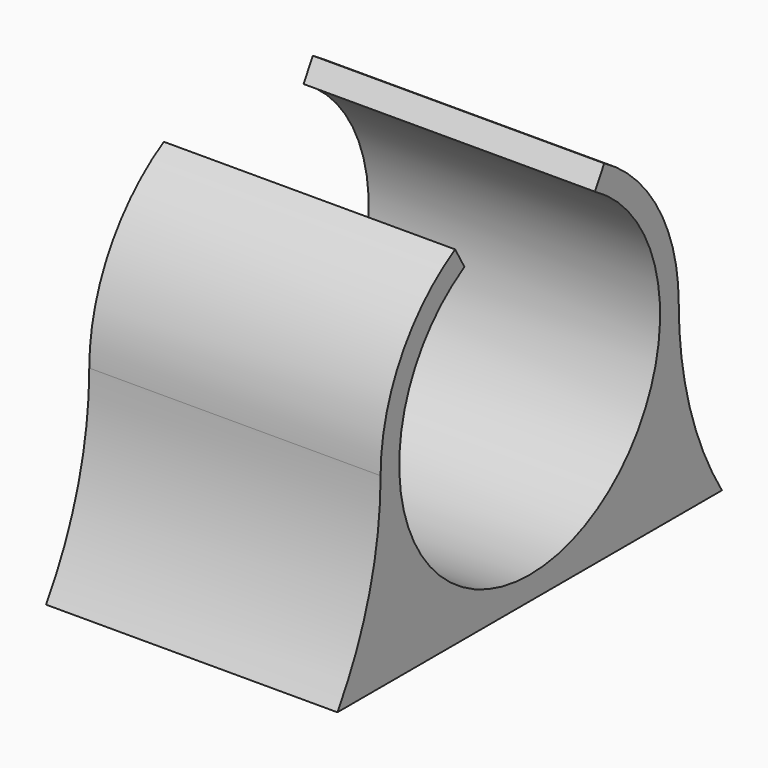
from build123d import *

# Parameters (mm, degrees)
F1_DEPTH = 25
F3_DEPTH = 3


with BuildPart() as f1:
    # F0 (on Right) → F1 (new body)
    with BuildSketch(Plane.YZ):
        with BuildLine():
            ThreePointArc((6.995, 28.105695), (0, 2), (-6.995, 28.105695))
            Line((-6.995, 28.105695), (-7.995, 29.837746))
            ThreePointArc((-7.995, 29.837746), (-13.847746, 23.985), (-15.99, 15.99))
            ThreePointArc((-15.99, 15.99), (-11.306637, 4.683363), (0, 0))
            ThreePointArc((0, 0), (11.306637, 4.683363), (15.99, 15.99))
            ThreePointArc((15.99, 15.99), (13.847746, 23.985), (7.995, 29.837746))
            Line((7.995, 29.837746), (6.995, 28.105695))
        make_face()
        with BuildLine():
            ThreePointArc((0, 0), (-11.306637, 4.683363), (-15.99, 15.99))
            ThreePointArc((-15.99, 15.99), (-17.171231, 7.666355), (-20.621648, 0))
            Line((-20.621648, 0), (0, 0))
        make_face()
        with BuildLine():
            ThreePointArc((20.621648, 0), (17.171231, 7.666355), (15.99, 15.99))
            ThreePointArc((15.99, 15.99), (11.306637, 4.683363), (0, 0))
            Line((0, 0), (20.621648, 0))
        make_face()
    extrude(amount=F1_DEPTH)

    # F2 (on Right) → F3 (join)
    with BuildSketch(Plane.YZ):
        Polygon((5.7, 0), (3, 0), (3.5, -6), (6.2, -6), (7, -3), (5.95, -3), align=None)
        Polygon((-5.95, -3), (-7, -3), (-6.2, -6), (-3.5, -6), (-3, 0), (-5.7, 0), align=None)
    extrude(amount=F3_DEPTH)


solid = f1.part
